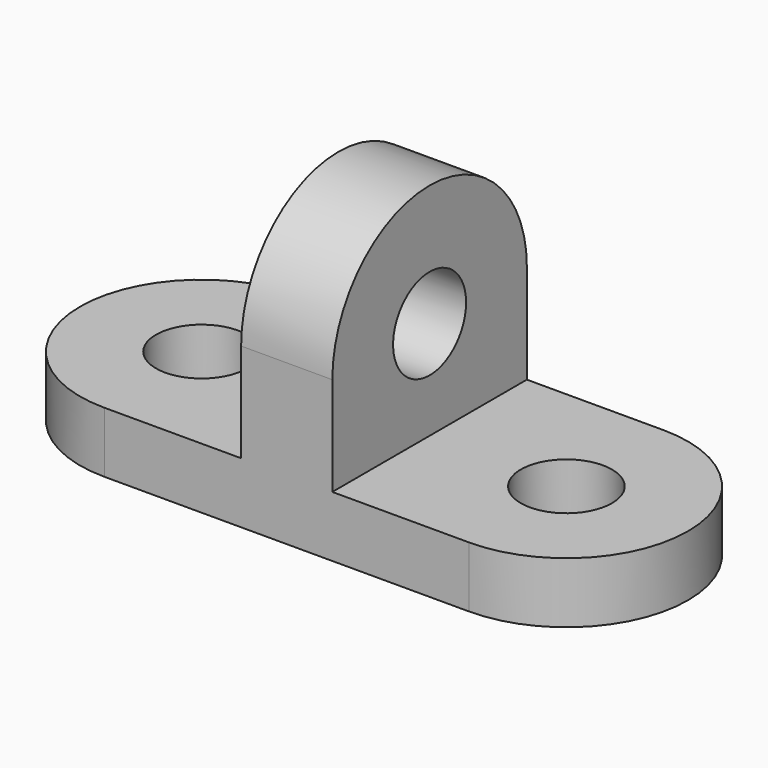
from build123d import *

# Parameters (mm, degrees)
F1_DEPTH = 12.7
F2_R     = 9.525
F3_DEPTH = 12.7
F4_R     = 9.525
F5_DEPTH = 9.525


with BuildPart() as f1:
    # F0 (on Top) → F1 (new body)
    with BuildSketch(Plane.XY):
        with BuildLine():
            ThreePointArc((-38.1, 25.4), (-63.5, 0), (-38.1, -25.4))
            Line((-38.1, -25.4), (38.1, -25.4))
            ThreePointArc((38.1, -25.4), (63.5, 0), (38.1, 25.4))
            Line((38.1, 25.4), (-38.1, 25.4))
        make_face()
    extrude(amount=F1_DEPTH)

    # F2 (on face) → F3 (cut)
    with BuildSketch(Plane.XY.offset(12.7)):
        with Locations((-38.1, 0)):
            Circle(F2_R)
        with Locations((38.1, 0)):
            Circle(F2_R)
    extrude(amount=-F3_DEPTH, mode=Mode.SUBTRACT)

    # F4 (on Right) → F5 (join, symmetric)
    with BuildSketch(Plane.YZ):
        with BuildLine():
            Line((-25.4, 33.3375), (-25.4, 12.7))
            Line((-25.4, 12.7), (25.4, 12.7))
            Line((25.4, 12.7), (25.4, 33.3375))
            ThreePointArc((25.4, 33.3375), (0, 58.7375), (-25.4, 33.3375))
        make_face()
        with Locations((0, 33.3375)):
            Circle(F4_R, mode=Mode.SUBTRACT)
    extrude(amount=F5_DEPTH, both=True)


solid = f1.part
